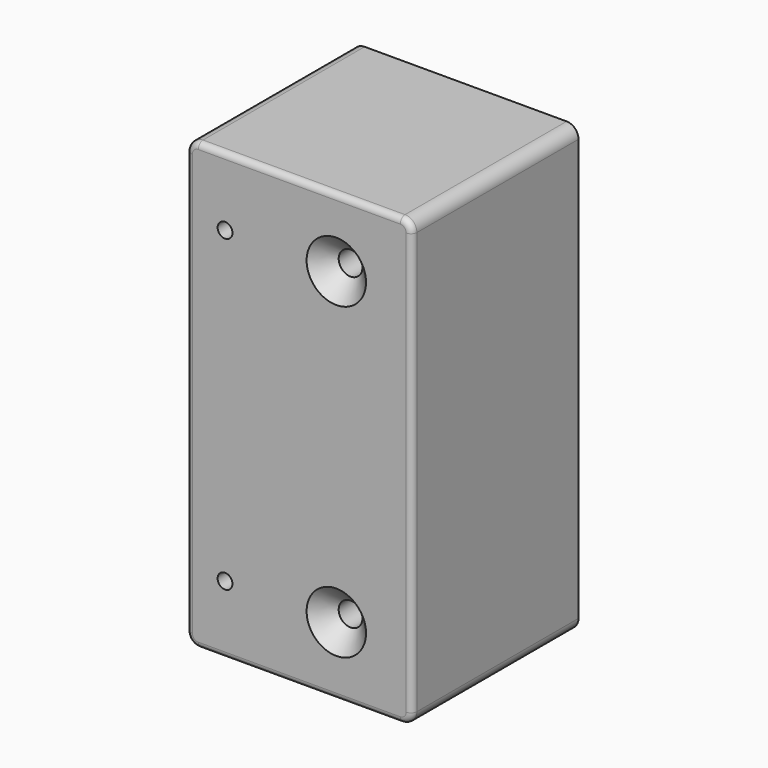
from build123d import *

# Parameters (mm, degrees)
F0_W     = 38
F0_H     = 75
F0_R     = 1.25
F0_R_2   = 2
F1_DEPTH = 35
F2_SIZE2 = 3
F2_SIZE  = 3
F3_R     = 2
F4_R     = 1


with BuildPart() as f1:
    # F0 (on Front) → F1 (new body)
    with BuildSketch(Plane.XZ):
        Rectangle(F0_W, F0_H)
        with Locations((-12.5, -26)):
            Circle(F0_R, mode=Mode.SUBTRACT)
        with Locations((6.232371, -26)):
            Circle(F0_R_2, mode=Mode.SUBTRACT)
        with Locations((-12.5, 26)):
            Circle(F0_R, mode=Mode.SUBTRACT)
        with Locations((6.232371, 26)):
            Circle(F0_R_2, mode=Mode.SUBTRACT)
    extrude(amount=F1_DEPTH)

    # F2
    f2_edges = [f1.edges().sort_by_distance(p)[0] for p in [
        (4.232371, -35, 26),
        (4.232371, -35, -26),
    ]]
    chamfer(f2_edges, length=F2_SIZE, length2=F2_SIZE2)

    # F3
    f3_edges = [f1.edges().sort_by_distance(p)[0] for p in [
        (-19, -17.5, 37.5),
        (-19, -17.5, -37.5),
        (19, -17.5, -37.5),
        (19, -17.5, 37.5),
    ]]
    fillet(f3_edges, radius=F3_R)

    # F4
    f4_edges = [f1.edges().sort_by_distance(p)[0] for p in [
        (-19, -35, 0),
    ]]
    fillet(f4_edges, radius=F4_R)


solid = f1.part
